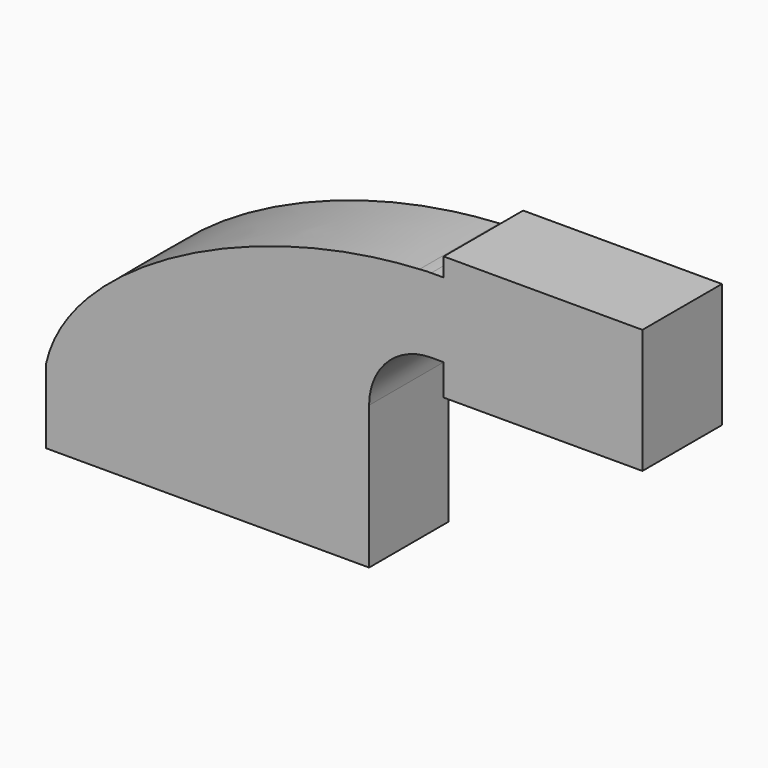
from build123d import *

# Parameters (mm, degrees)
F0_W     = 25.4
F0_H     = 19.05
F1_DEPTH = 25.4


with BuildPart() as f1:
    # F0 (on Front) → F1 (new body)
    with BuildSketch(Plane.XZ):
        Polygon((-41.275, 9.525), (-41.275, -9.525), (41.275, -9.525), (41.275, 9.525), (22.225, 9.525), align=None)
        with BuildLine():
            add(Edge.make_bspline(
                [(-41.275, 9.525), (-35.6387243901, 35.1582404127), (10.0105613551, 59.4254952908), (54.1813906662, 61.7988060586)],
                knots=[0, 0, 0, 0, 109.0591202837, 109.0591202837, 109.0591202837, 109.0591202837], degree=3))
            Line((-41.275, 9.525), (22.225, 9.525))
            Line((22.225, 9.525), (22.225, 27.0002))
            ThreePointArc((22.225, 27.0002), (31.4261365073, 50.623037933), (54.1813906662, 61.7988060586))
        make_face()
        with BuildLine():
            Line((22.225, 9.525), (41.275, 9.525))
            Line((41.275, 9.525), (41.275, 27.0002))
            ThreePointArc((41.275, 27.0002), (45.9246798487, 38.2255201513), (57.15, 42.8752))
            Line((57.15, 42.8752), (60.325, 42.8752))
            Line((60.325, 42.8752), (60.325, 61.9252))
            Line((60.325, 61.9252), (57.15, 61.9252))
            add(Edge.make_bspline(
                [(54.1813906662, 61.7988060586), (55.1718263779, 61.8520224409), (56.1615187454, 61.8942308978), (57.15, 61.9252)],
                knots=[109.0591202837, 109.0591202837, 109.0591202837, 109.0591202837, 111.5045361635, 111.5045361635, 111.5045361635, 111.5045361635], degree=3))
            ThreePointArc((54.1813906662, 61.7988060586), (31.4261365073, 50.623037933), (22.225, 27.0002))
            Line((22.225, 27.0002), (22.225, 9.525))
        make_face()
        with BuildLine():
            ThreePointArc((57.15, 61.9252), (55.6643505793, 61.8935872073), (54.1813906662, 61.7988060586))
            add(Edge.make_bspline(
                [(54.1813906662, 61.7988060586), (55.1718263779, 61.8520224409), (56.1615187454, 61.8942308978), (57.15, 61.9252)],
                knots=[109.0591202837, 109.0591202837, 109.0591202837, 109.0591202837, 111.5045361635, 111.5045361635, 111.5045361635, 111.5045361635], degree=3))
        make_face()
        with Locations((73.025, 52.4002)):
            Rectangle(F0_W, F0_H)
        Polygon((60.325, 66.675), (60.325, 61.9252), (85.725, 61.9252), (85.725, 42.8752), (60.325, 42.8752), (60.325, 34.925), (111.125, 34.925), (111.125, 66.675), align=None)
    extrude(amount=F1_DEPTH)


solid = f1.part
